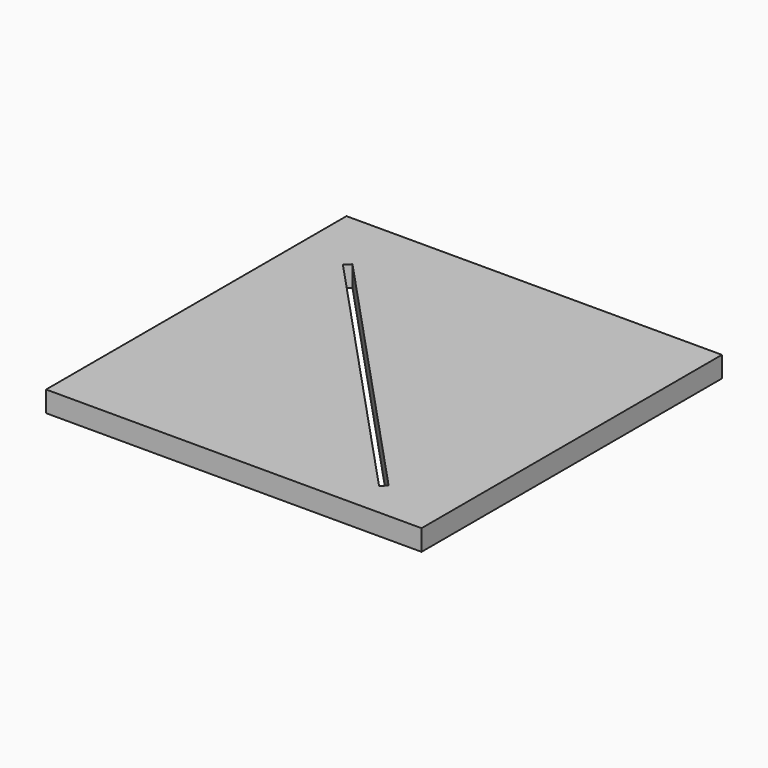
from build123d import *

# Parameters (mm, degrees)
F0_W     = 25.4
F0_H     = 25.4
F1_DEPTH = 1.411111


with BuildPart() as f1:
    # F0 (on Top) → F1 (new body)
    with BuildSketch(Plane.XY):
        with Locations((12.7, 12.7)):
            Rectangle(F0_W, F0_H)
        Polygon((20.627546, 2.370901), (3.317771, 20.952014), (3.685775, 21.30221), (20.999226, 2.717151), align=None, mode=Mode.SUBTRACT)
    extrude(amount=F1_DEPTH)


solid = f1.part
